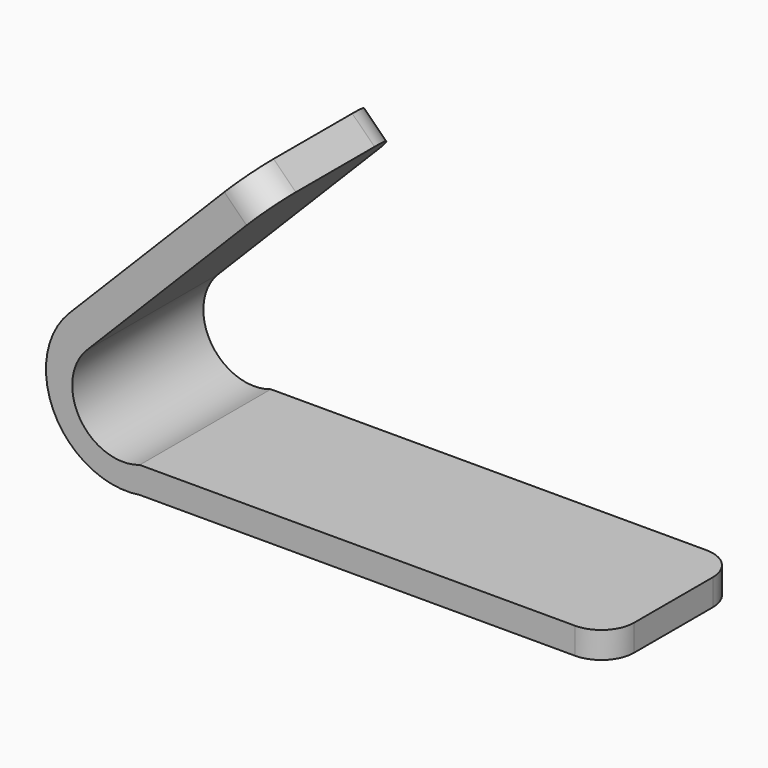
from build123d import *

# Parameters (mm, degrees)
F1_DEPTH = 25.4
F2_R     = 5.08


with BuildPart() as f1:
    # F0 (on Front) → F1 (new body)
    with BuildSketch(Plane.XZ):
        with BuildLine():
            Line((-28.316792, 2.771431), (0, 31.449713))
            Line((0, 31.449713), (-3.456192, 34.862339))
            Line((-3.456192, 34.862339), (-31.034873, 6.93159))
            ThreePointArc((-31.034873, 6.93159), (-33.276866, -7.65281), (-20.122997, -14.339142))
            Line((-20.122997, -14.339142), (52.416187, -14.339142))
            Line((52.416187, -14.339142), (52.416187, -10.242244))
            Line((52.416187, -10.242244), (-20.122997, -10.242244))
            ThreePointArc((-20.122997, -10.242244), (-29.380141, -6.984451), (-28.316792, 2.771431))
        make_face()
    extrude(amount=F1_DEPTH)

    # F2
    f2_edges = [f1.edges().sort_by_distance(p)[0] for p in [
        (-1.728096, -25.4, 33.156026),
        (-1.728096, 0, 33.156026),
        (52.416187, -25.4, -12.290693),
        (52.416187, 0, -12.290693),
    ]]
    fillet(f2_edges, radius=F2_R)


solid = f1.part
